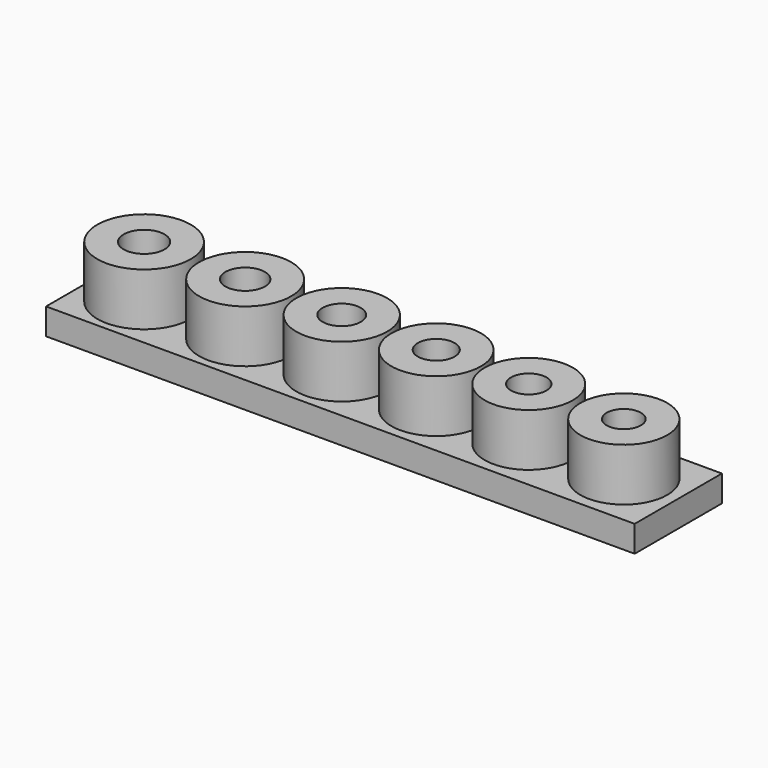
from build123d import *

# Parameters (mm, degrees)
F0_W     = 44.694478
F0_H     = 8.281767
F0_R     = 3.55
F0_R_2   = 3.5
F0_R_3   = 3.45
F0_R_4   = 3.4
F0_R_5   = 3.35
F0_R_6   = 3.3
F1_DEPTH = 2
F0_R_7   = 1.55
F0_R_8   = 1.5
F0_R_9   = 1.45
F0_R_10  = 1.4
F0_R_11  = 1.35
F0_R_12  = 1.3
F2_DEPTH = 6


with BuildPart() as f1:
    # F0 (on Top) → F1 (new body)
    with BuildSketch(Plane.XY):
        with Locations((-2.475982, -28.953518)):
            Rectangle(F0_W, F0_H)
        with Locations((-20.664329, -28.990293)):
            Circle(F0_R, mode=Mode.SUBTRACT)
        with Locations((-12.989431, -28.990293)):
            Circle(F0_R_2, mode=Mode.SUBTRACT)
        with Locations((-5.658184, -28.990293)):
            Circle(F0_R_3, mode=Mode.SUBTRACT)
        with Locations((1.520328, -28.990293)):
            Circle(F0_R_4, mode=Mode.SUBTRACT)
        with Locations((8.546106, -28.990293)):
            Circle(F0_R_5, mode=Mode.SUBTRACT)
        with Locations((15.762802, -28.990293)):
            Circle(F0_R_6, mode=Mode.SUBTRACT)
    extrude(amount=F1_DEPTH)

    # F0 (on Top) → F2 (join)
    with BuildSketch(Plane.XY):
        with Locations((-20.664329, -28.990293)):
            Circle(F0_R)
        with Locations((-20.664329, -28.990293)):
            Circle(F0_R_7, mode=Mode.SUBTRACT)
        with Locations((-12.989431, -28.990293)):
            Circle(F0_R_2)
        with Locations((-12.989431, -28.990293)):
            Circle(F0_R_8, mode=Mode.SUBTRACT)
        with Locations((-5.658184, -28.990293)):
            Circle(F0_R_3)
        with Locations((-5.658184, -28.990293)):
            Circle(F0_R_9, mode=Mode.SUBTRACT)
        with Locations((1.520328, -28.990293)):
            Circle(F0_R_4)
        with Locations((1.520328, -28.990293)):
            Circle(F0_R_10, mode=Mode.SUBTRACT)
        with Locations((8.546106, -28.990293)):
            Circle(F0_R_5)
        with Locations((8.546106, -28.990293)):
            Circle(F0_R_11, mode=Mode.SUBTRACT)
        with Locations((15.762802, -28.990293)):
            Circle(F0_R_6)
        with Locations((15.762802, -28.990293)):
            Circle(F0_R_12, mode=Mode.SUBTRACT)
    extrude(amount=F2_DEPTH)


solid = f1.part
